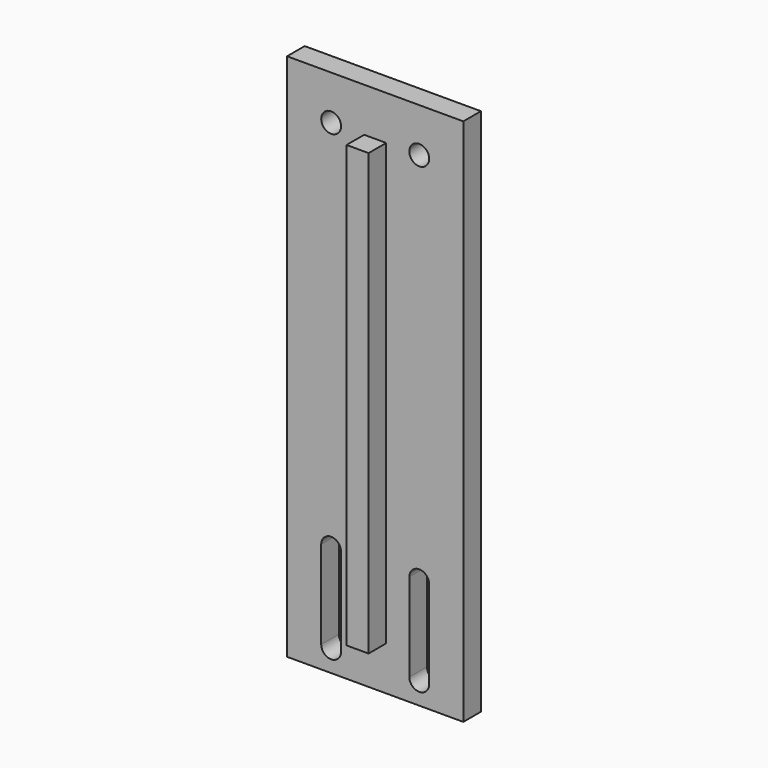
from build123d import *

# Parameters (mm, degrees)
F0_W     = 17.5
F0_H     = 120
F0_W_2   = 5
F1_DEPTH = 5
F2_W     = 5
F2_H     = 100
F3_DEPTH = 5
F4_D     = 4.5
F4_DEPTH = 17
F4_TIP   = 1.3519363928


with BuildPart() as f1:
    # F0 (on Front) → F1 (new body)
    with BuildSketch(Plane.XZ):
        with Locations((-11.25, 0)):
            Rectangle(F0_W, F0_H)
        with BuildLine():
            Line((-7.75, -35), (-7.75, -55))
            ThreePointArc((-7.75, -55), (-10, -57.25), (-12.25, -55))
            Line((-12.25, -55), (-12.25, -35))
            ThreePointArc((-12.25, -35), (-10, -32.75), (-7.75, -35))
        make_face(mode=Mode.SUBTRACT)
        Rectangle(F0_W_2, F0_H)
        with Locations((11.25, 0)):
            Rectangle(F0_W, F0_H)
        with BuildLine():
            Line((12.25, -35), (12.25, -55))
            ThreePointArc((12.25, -55), (10, -57.25), (7.75, -55))
            Line((7.75, -55), (7.75, -35))
            ThreePointArc((7.75, -35), (10, -32.75), (12.25, -35))
        make_face(mode=Mode.SUBTRACT)
    extrude(amount=F1_DEPTH)

    # F2 (on face) → F3 (join)
    with BuildSketch(Plane.XZ.offset(5)):
        Rectangle(F2_W, F2_H)
    extrude(amount=F3_DEPTH)

    # F4
    with Locations(Plane(origin=(0, 0, 0), x_dir=(1, 0, 0), z_dir=(0, 1, 0))):
        with Locations((10, -50), (-10, -50)):
            Hole(F4_D / 2, depth=F4_DEPTH)
            with Locations((0, 0, -(F4_DEPTH + F4_TIP / 2))):  # 118° drill point
                Cone(0, F4_D / 2, F4_TIP, mode=Mode.SUBTRACT)


solid = f1.part
